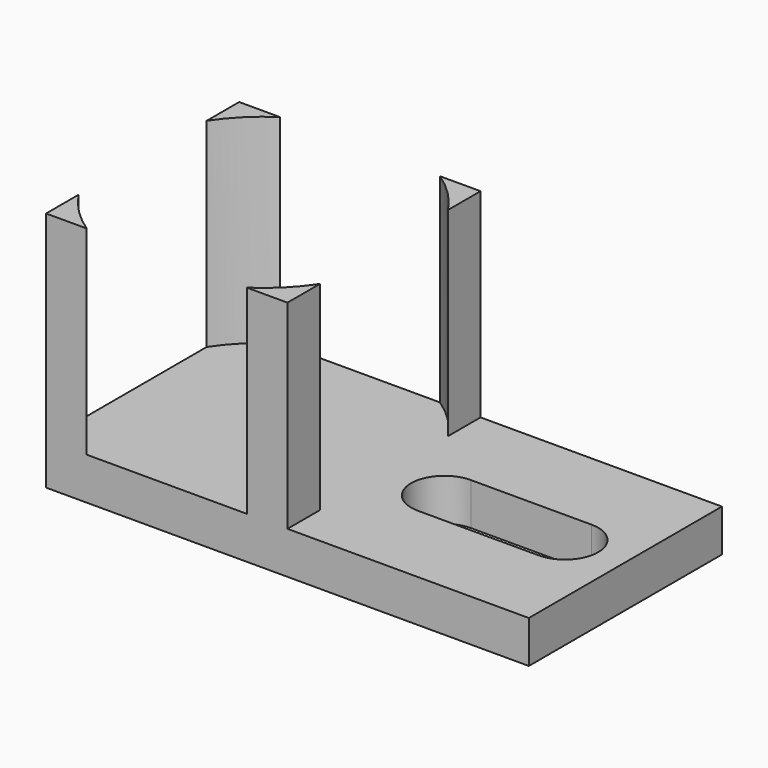
from build123d import *

# Parameters (mm, degrees)
F1_DEPTH = 20
F2_R     = 12
F3_DEPTH = 16.5
F5_DEPTH = 3.5


with BuildPart() as f1:
    # F0 (on Front) → F1 (new body)
    with BuildSketch(Plane.XZ):
        Polygon((0, 20), (0, 0), (20, 0), (40, 0), (40, 3.5), (20, 3.5), (20, 20), align=None)
    extrude(amount=F1_DEPTH)

    # F2 (on face) → F3 (cut, through all)
    with BuildSketch(Plane.XY.offset(20)):
        with Locations((10, -10)):
            Circle(F2_R)
    extrude(amount=-F3_DEPTH, mode=Mode.SUBTRACT)

    # F4 (on face) → F5 (cut, through all)
    with BuildSketch(Plane.XY.offset(3.5)):
        with BuildLine():
            Line((30, -12.75), (35, -12.75))
            ThreePointArc((35, -12.75), (37.75, -10), (35, -7.25))
            Line((35, -7.25), (30, -7.25))
            Line((30, -7.25), (25, -7.25))
            ThreePointArc((25, -7.25), (22.25, -10), (25, -12.75))
            Line((25, -12.75), (30, -12.75))
        make_face()
    extrude(amount=-F5_DEPTH, mode=Mode.SUBTRACT)


solid = f1.part
